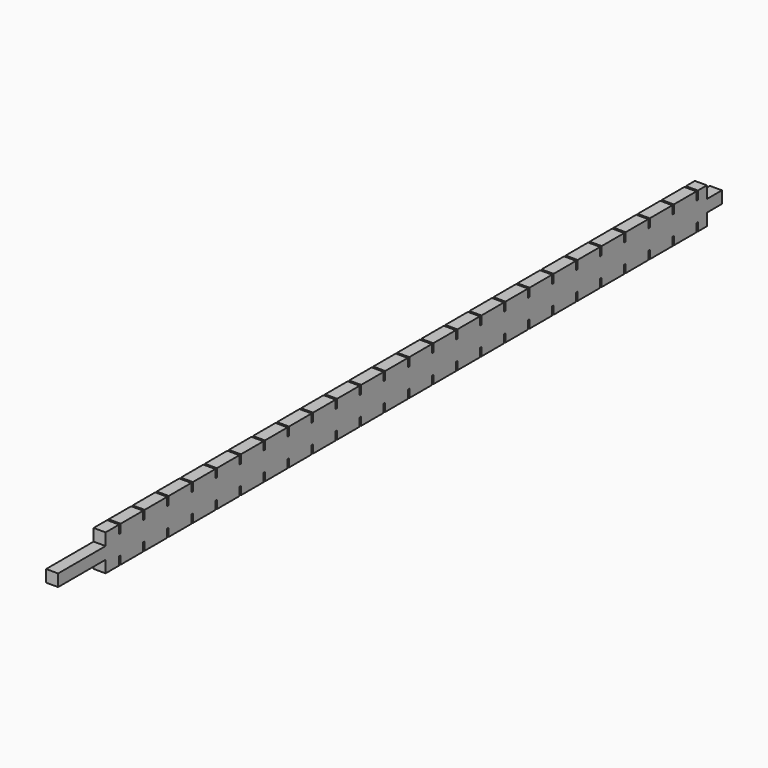
from build123d import *

# Parameters (mm, degrees)
F0_W     = 32
F0_H     = 32
F1_DEPTH = 2208
F3_W     = 32
F3_H     = 32
F4_DEPTH = 2000
F5_W     = 5
F5_H     = 22
F6_DEPTH = 32


with BuildPart() as f1:
    # F0 (on Front) → F1 (new body)
    with BuildSketch(Plane.XZ):
        Rectangle(F0_W, F0_H)
    extrude(amount=F1_DEPTH)

    # F3 (on offset) → F4 (join)
    with BuildSketch(Plane.XZ.offset(50)):
        with Locations((0, 32)):
            Rectangle(F3_W, F3_H)
        with Locations((0, -32)):
            Rectangle(F3_W, F3_H)
    extrude(amount=F4_DEPTH)

    # F5 (on face) → F6 (cut)
    with BuildSketch(Plane.YZ.offset(16)):
        with Locations((-82.5, 37)):
            Rectangle(F5_W, F5_H)
        with Locations((-82.5, -37)):
            Rectangle(F5_W, F5_H)
        with Locations((-162.5, 37)):
            Rectangle(F5_W, F5_H)
        with Locations((-162.5, -37)):
            Rectangle(F5_W, F5_H)
        with Locations((-242.5, 37)):
            Rectangle(F5_W, F5_H)
        with Locations((-242.5, -37)):
            Rectangle(F5_W, F5_H)
        with Locations((-322.5, 37)):
            Rectangle(F5_W, F5_H)
        with Locations((-322.5, -37)):
            Rectangle(F5_W, F5_H)
        with Locations((-402.5, 37)):
            Rectangle(F5_W, F5_H)
        with Locations((-402.5, -37)):
            Rectangle(F5_W, F5_H)
        with Locations((-482.5, 37)):
            Rectangle(F5_W, F5_H)
        with Locations((-482.5, -37)):
            Rectangle(F5_W, F5_H)
        with Locations((-562.5, 37)):
            Rectangle(F5_W, F5_H)
        with Locations((-562.5, -37)):
            Rectangle(F5_W, F5_H)
        with Locations((-642.5, 37)):
            Rectangle(F5_W, F5_H)
        with Locations((-642.5, -37)):
            Rectangle(F5_W, F5_H)
        with Locations((-722.5, 37)):
            Rectangle(F5_W, F5_H)
        with Locations((-722.5, -37)):
            Rectangle(F5_W, F5_H)
        with Locations((-802.5, 37)):
            Rectangle(F5_W, F5_H)
        with Locations((-802.5, -37)):
            Rectangle(F5_W, F5_H)
        with Locations((-882.5, 37)):
            Rectangle(F5_W, F5_H)
        with Locations((-882.5, -37)):
            Rectangle(F5_W, F5_H)
        with Locations((-962.5, 37)):
            Rectangle(F5_W, F5_H)
        with Locations((-962.5, -37)):
            Rectangle(F5_W, F5_H)
        with Locations((-1042.5, 37)):
            Rectangle(F5_W, F5_H)
        with Locations((-1042.5, -37)):
            Rectangle(F5_W, F5_H)
        with Locations((-1122.5, 37)):
            Rectangle(F5_W, F5_H)
        with Locations((-1122.5, -37)):
            Rectangle(F5_W, F5_H)
        with Locations((-1202.5, 37)):
            Rectangle(F5_W, F5_H)
        with Locations((-1202.5, -37)):
            Rectangle(F5_W, F5_H)
        with Locations((-1282.5, 37)):
            Rectangle(F5_W, F5_H)
        with Locations((-1282.5, -37)):
            Rectangle(F5_W, F5_H)
        with Locations((-1362.5, 37)):
            Rectangle(F5_W, F5_H)
        with Locations((-1362.5, -37)):
            Rectangle(F5_W, F5_H)
        with Locations((-1442.5, 37)):
            Rectangle(F5_W, F5_H)
        with Locations((-1442.5, -37)):
            Rectangle(F5_W, F5_H)
        with Locations((-1522.5, 37)):
            Rectangle(F5_W, F5_H)
        with Locations((-1522.5, -37)):
            Rectangle(F5_W, F5_H)
        with Locations((-1602.5, 37)):
            Rectangle(F5_W, F5_H)
        with Locations((-1602.5, -37)):
            Rectangle(F5_W, F5_H)
        with Locations((-1682.5, 37)):
            Rectangle(F5_W, F5_H)
        with Locations((-1682.5, -37)):
            Rectangle(F5_W, F5_H)
        with Locations((-1762.5, 37)):
            Rectangle(F5_W, F5_H)
        with Locations((-1762.5, -37)):
            Rectangle(F5_W, F5_H)
        with Locations((-1842.5, 37)):
            Rectangle(F5_W, F5_H)
        with Locations((-1842.5, -37)):
            Rectangle(F5_W, F5_H)
        with Locations((-1922.5, 37)):
            Rectangle(F5_W, F5_H)
        with Locations((-1922.5, -37)):
            Rectangle(F5_W, F5_H)
        with Locations((-2002.5, 37)):
            Rectangle(F5_W, F5_H)
        with Locations((-2002.5, -37)):
            Rectangle(F5_W, F5_H)
    extrude(amount=-F6_DEPTH, mode=Mode.SUBTRACT)


solid = f1.part
